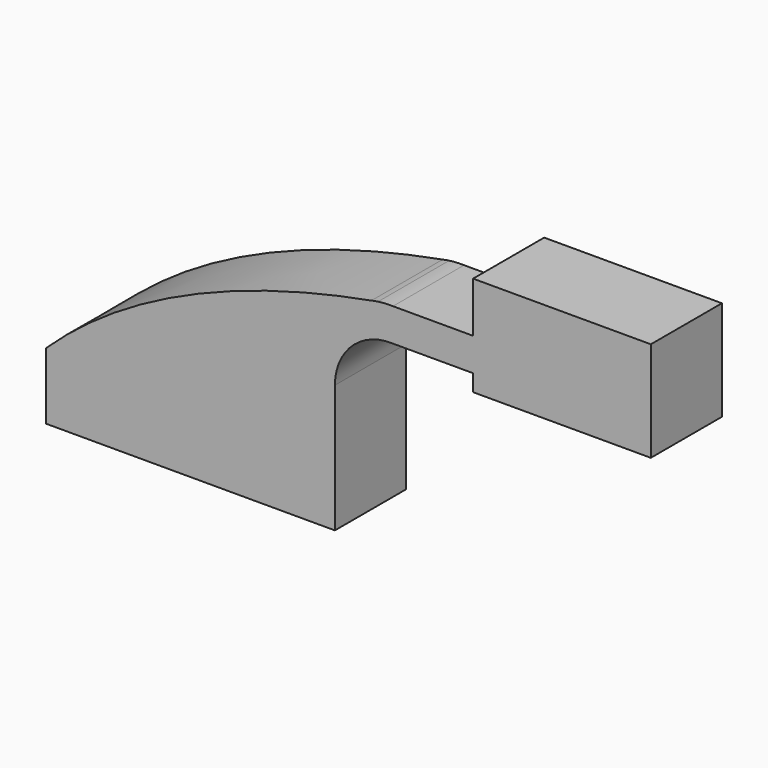
from build123d import *

# Parameters (mm, degrees)
F1_DEPTH = 25.4


with BuildPart() as f1:
    # F0 (on Front) → F1 (new body)
    with BuildSketch(Plane.XZ):
        Polygon((-82.55, 0), (0, 0), (0, 19.05), (-9.4102, 19.05), (-82.55, 19.05), align=None)
        with BuildLine():
            Line((-9.4102, 19.05), (0, 19.05))
            Line((0, 19.05), (0, 36.535349))
            ThreePointArc((0, 36.535349), (4.852166, 47.959566), (16.442551, 52.4002))
            Line((16.442551, 52.4002), (39.498304, 52.4002))
            Line((39.498304, 52.4002), (39.498304, 61.8104))
            Line((39.498304, 61.8104), (16.591319, 61.8104))
            ThreePointArc((16.591319, 61.8104), (14.455766, 61.780687), (12.330339, 61.570857))
            add(Edge.make_bspline(
                [(10.443617, 61.230316), (11.07103, 61.345589), (11.699943, 61.459099), (12.330339, 61.570857)],
                knots=[102.267957, 102.267957, 102.267957, 102.267957, 103.972602, 103.972602, 103.972602, 103.972602], degree=3))
            ThreePointArc((10.443617, 61.230316), (-3.83128, 52.37845), (-9.4102, 36.535349))
            Line((-9.4102, 36.535349), (-9.4102, 19.05))
        make_face()
        with BuildLine():
            add(Edge.make_bspline(
                [(-82.55, 19.05), (-59.439801, 41.052572), (-27.197229, 54.314634), (10.443617, 61.230316)],
                knots=[0, 0, 0, 0, 102.267957, 102.267957, 102.267957, 102.267957], degree=3))
            Line((-82.55, 19.05), (-9.4102, 19.05))
            Line((-9.4102, 19.05), (-9.4102, 36.535349))
            ThreePointArc((-9.4102, 36.535349), (-3.83128, 52.37845), (10.443617, 61.230316))
        make_face()
        with BuildLine():
            ThreePointArc((12.330339, 61.570857), (11.383749, 61.418475), (10.443617, 61.230316))
            add(Edge.make_bspline(
                [(10.443617, 61.230316), (11.07103, 61.345589), (11.699943, 61.459099), (12.330339, 61.570857)],
                knots=[102.267957, 102.267957, 102.267957, 102.267957, 103.972602, 103.972602, 103.972602, 103.972602], degree=3))
        make_face()
        Polygon((39.498304, 61.8104), (39.498304, 52.4002), (39.498304, 47.625), (90.298304, 47.625), (90.298304, 76.2), (39.498304, 76.2), align=None)
    extrude(amount=F1_DEPTH)


solid = f1.part
